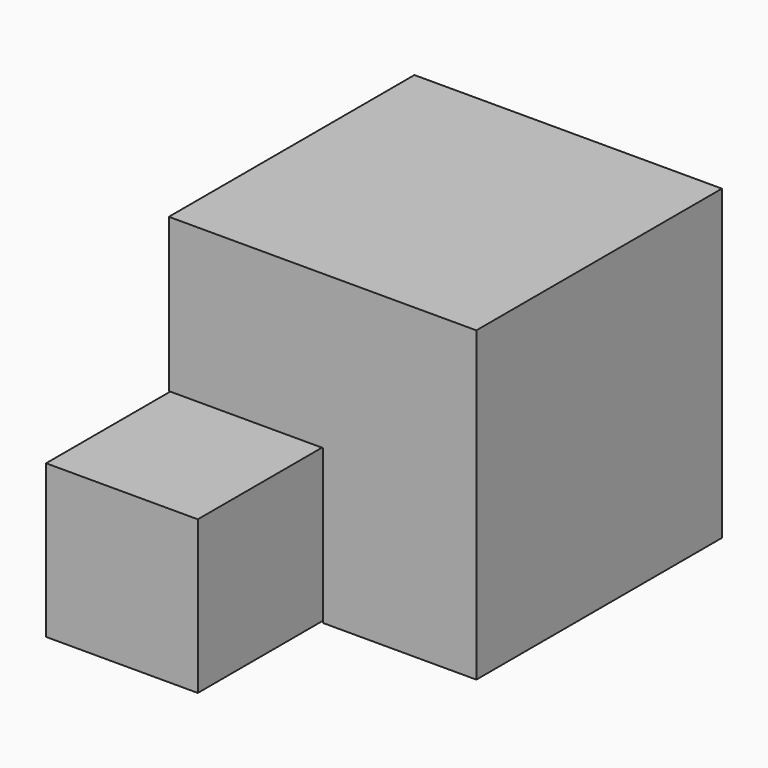
from build123d import *

# Parameters (mm, degrees)
F1_DEPTH = 50.8
F2_W     = 25.110539
F2_H     = 25.301492
F3_DEPTH = 76.2


with BuildPart() as f1:
    # F0 (on Front) → F1 (new body)
    with BuildSketch(Plane.XZ):
        Polygon((0, 50.889418), (0, 25.492448), (25.492446, 25.492448), (25.492446, 0), (50.889414, 0), (50.889414, 50.889418), align=None)
    extrude(amount=F1_DEPTH)


with BuildPart() as f3:
    # F2 (on Front) → F3 (new body)
    with BuildSketch(Plane.XZ):
        with Locations((12.555269, 12.650746)):
            Rectangle(F2_W, F2_H)
    extrude(amount=F3_DEPTH)


solid = Compound([f1.part, f3.part])
